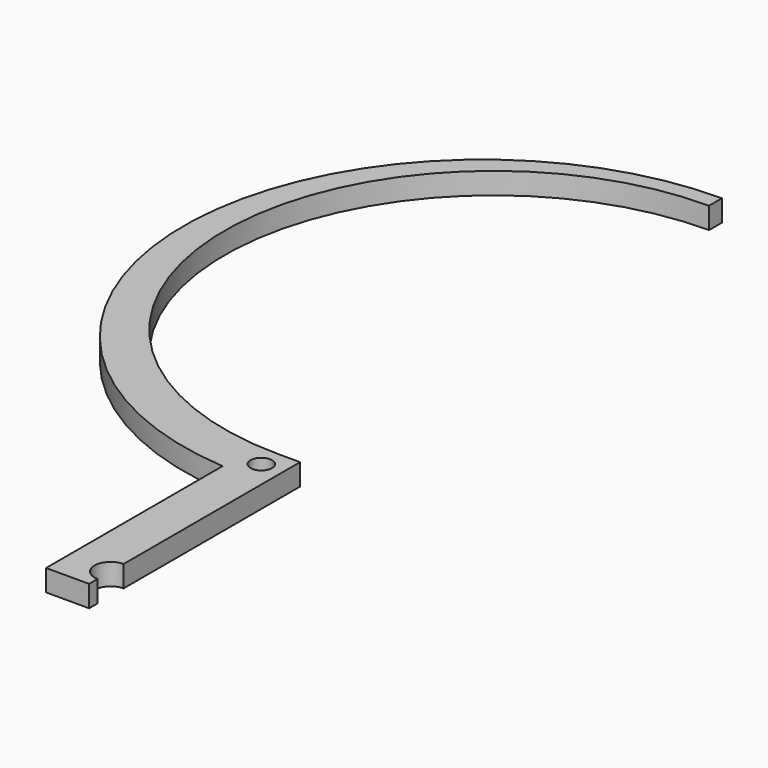
from build123d import *

# Parameters (mm, degrees)
SKETCH_R  = 1
PAD_DEPTH = 2


with BuildPart() as part:
    # Sketch → Pad (new body)
    with BuildSketch(Plane.XY):
        with BuildLine():
            ThreePointArc((0, 50), (-25, 25), (0, 0))
            Line((2, 0), (0, 0))
            Line((2, -20.5), (2, 0))
            ThreePointArc((2, -20.5), (0.5, -22), (2, -23.5))
            Line((2, -23.5), (2, -24.5))
            Line((2, -24.5), (-2, -24.5))
            Line((-2, -4), (-2, -24.5))
            ThreePointArc((0, 51.5), (-27.768012, 24.714613), (-2, -4))
            Line((0, 50), (0, 51.5))
        make_face()
        with Locations((0, -2)):
            Circle(SKETCH_R, mode=Mode.SUBTRACT)
    extrude(amount=PAD_DEPTH)


solid = part.part
